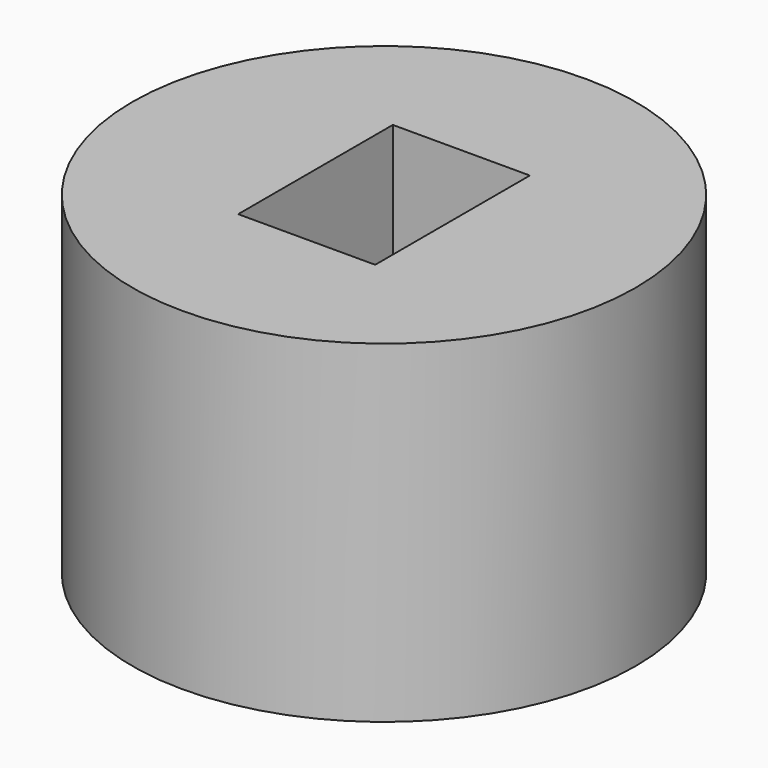
from build123d import *

# Parameters (mm, degrees)
F0_W     = 38.5183766484
F0_H     = 50.980206579
F2_W     = 20.9750365466
F2_H     = 29.5896790922
F3_DEPTH = 50.981206579


with BuildPart() as f1:
    # F0 (on Right) → F1 (revolve)
    with BuildSketch(Plane.YZ):
        with Locations((-19.2591883242, 25.4901032895)):
            Rectangle(F0_W, F0_H)
    revolve(axis=Axis((0, 0, 25.4901032895), (0, 0, 1)))

    # F2 (on face) → F3 (cut, through all)
    with BuildSketch(Plane.XY.offset(50.980206579)):
        Rectangle(F2_W, F2_H)
    extrude(amount=-F3_DEPTH, mode=Mode.SUBTRACT)


solid = f1.part
